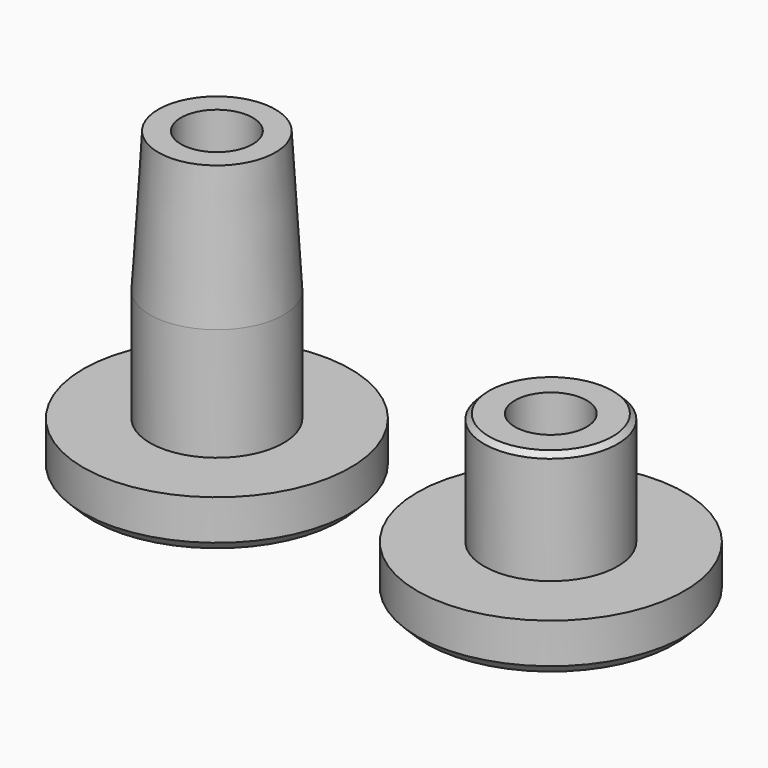
from build123d import *

# Parameters (mm, degrees)
F3_R      = 2.15
F4_DEPTH  = 18.151
F5_SIZE   = 0.6
F5_2_SIZE = 0.6
F6_SIZE   = 0.3


with BuildPart() as f1:
    # F0 (on Front) → F1 (revolve)
    with BuildSketch(Plane.XZ):
        Polygon((-3.5, 18.15), (-4, 9.75), (-4, 3), (-8, 3), (-8, 0), (0, 0), (0, 18.15), align=None)
    revolve(axis=Axis((0, 0, 9.6170306206), (0, 0, 1)))


with BuildPart() as f2:
    # F0 (on Front) → F2 (revolve)
    with BuildSketch(Plane.XZ):
        Polygon((12, 3), (12, 0), (20, 0), (20, 9.75), (16, 9.75), (16, 3), align=None)
    revolve(axis=Axis((20, 0, 4.875), (0, 0, 1)))


with BuildPart() as f4_tool:
    # F3 (on Top) → F4 (new body, through all)
    with BuildSketch(Plane.XY):
        Circle(F3_R)
        with Locations((20, 0)):
            Circle(F3_R)
    extrude(amount=F4_DEPTH)


with BuildPart() as f1_1:
    add(f1.part)

    # F4: cut by f4_tool
    add(f4_tool.part, mode=Mode.SUBTRACT)

    # F5
    f5_edges = [f1_1.edges().sort_by_distance(p)[0] for p in [
        (8, 0, 0),
    ]]
    chamfer(f5_edges, length=F5_SIZE)


with BuildPart() as f2_1:
    add(f2.part)

    # F4: cut by f4_tool
    add(f4_tool.part, mode=Mode.SUBTRACT)

    # F5#2
    f5_2_edges = [f2_1.edges().sort_by_distance(p)[0] for p in [
        (28, 0, 0),
    ]]
    chamfer(f5_2_edges, length=F5_2_SIZE)

    # F6
    f6_edges = [f2_1.edges().sort_by_distance(p)[0] for p in [
        (24, 0, 9.75),
    ]]
    chamfer(f6_edges, length=F6_SIZE)


solid = Compound([f1_1.part, f2_1.part])
